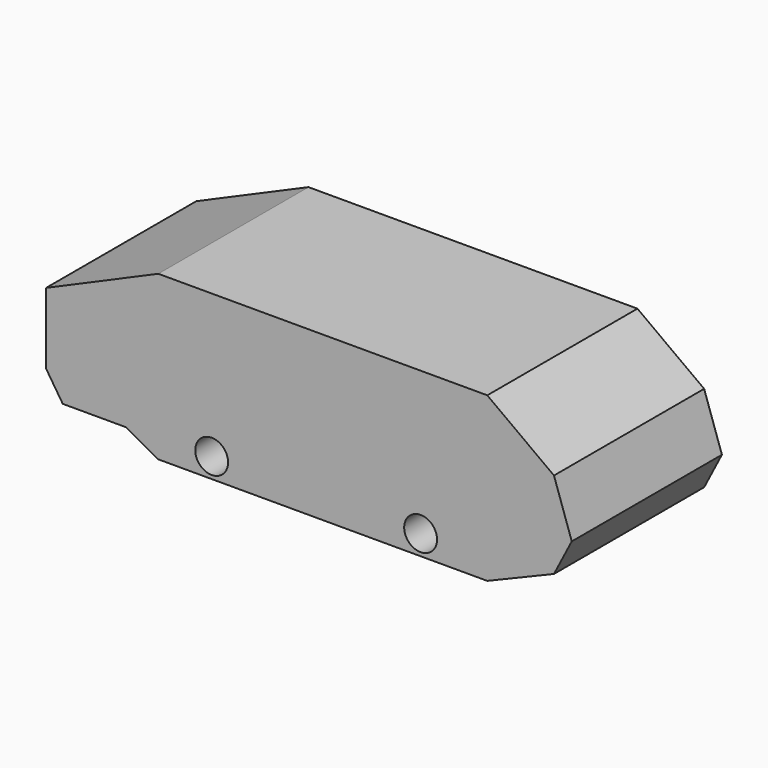
from build123d import *

# Parameters (mm, degrees)
F0_R     = 4.445
F1_DEPTH = 50.8


with BuildPart() as f1:
    # F0 (on Front) → F1 (new body)
    with BuildSketch(Plane.XZ):
        Polygon((53.841315, 18.648949), (-35.19237, 18.648949), (-65.572105, 5.414211), (-65.572105, -13.836316), (-61.060261, -20.754473), (-43.915264, -20.754473), (-35.19237, -25.567105), (53.841315, -25.567105), (71.888685, -18.047368), (76.701313, -8.722895), (71.888685, 5.414211), align=None)
        with Locations((-20.754473, -20.152895)):
            Circle(F0_R, mode=Mode.SUBTRACT)
        with Locations((35.793949, -20.152895)):
            Circle(F0_R, mode=Mode.SUBTRACT)
    extrude(amount=F1_DEPTH)


solid = f1.part
